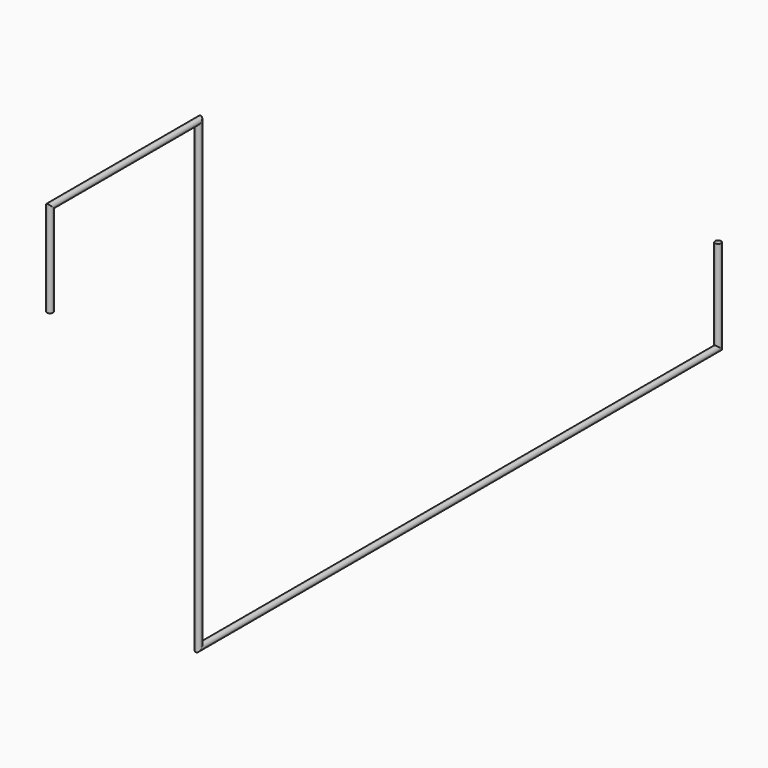
from build123d import *

# Parameters (mm, degrees)
F0_R = 4.953


with BuildPart() as f2:
    # F2: sweep along a path in F1
    with BuildLine(Plane.YZ) as f2_path:
        Line((0, 0), (0, 152.4))
        Line((0, 152.4), (304.8, 152.4))
        Line((304.8, 152.4), (304.8, -609.6))
        Line((304.8, -609.6), (1371.6, -609.6))
        Line((1371.6, -609.6), (1371.6, -457.2))
    # F0 (on Top) → F2 (sweep)
    with BuildSketch(Plane.XY):
        Circle(F0_R)
    sweep(path=f2_path.line, transition=Transition.RIGHT)


solid = f2.part
